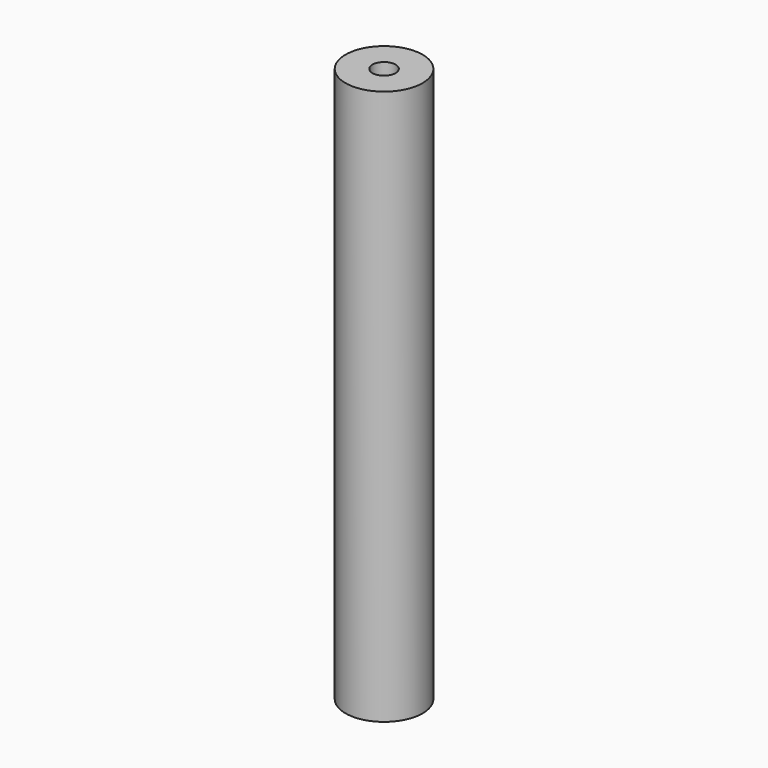
from build123d import *

# Parameters (mm, degrees)
SKETCH_R   = 5
SKETCH_R_2 = 1.5
PAD_DEPTH  = 72


with BuildPart() as part:
    # Sketch → Pad (new body)
    with BuildSketch(Plane.XY):
        Circle(SKETCH_R)
        Circle(SKETCH_R_2, mode=Mode.SUBTRACT)
    extrude(amount=PAD_DEPTH)


solid = part.part
